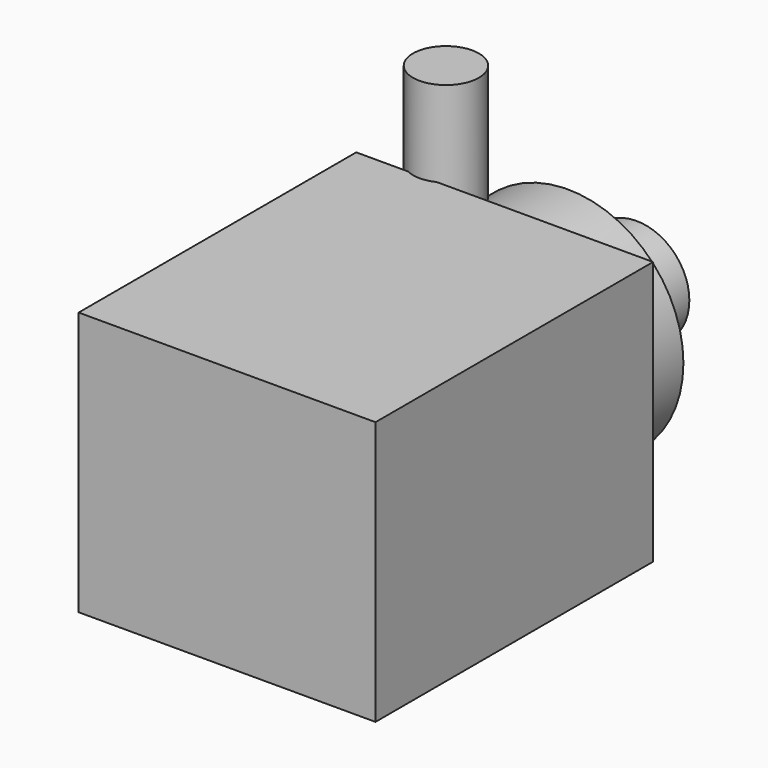
from build123d import *

# Parameters (mm, degrees)
F0_W     = 45
F0_H     = 40
F0_R     = 17.5
F0_R_2   = 8
F1_DEPTH = 52.6
F2_DEPTH = 12
F3_DEPTH = 25
F4_R     = 5
F5_DEPTH = 33


with BuildPart() as f1:
    # F0 (on Front) → F1 (new body)
    with BuildSketch(Plane.XZ):
        Rectangle(F0_W, F0_H)
        Circle(F0_R, mode=Mode.SUBTRACT)
        Circle(F0_R)
        Circle(F0_R_2, mode=Mode.SUBTRACT)
        Circle(F0_R_2)
    extrude(amount=F1_DEPTH)

    # F0 (on Front) → F2 (join)
    with BuildSketch(Plane.XZ):
        Circle(F0_R)
        Circle(F0_R_2, mode=Mode.SUBTRACT)
    extrude(amount=-F2_DEPTH)

    # F0 (on Front) → F3 (join)
    with BuildSketch(Plane.XZ):
        Circle(F0_R_2)
    extrude(amount=-F3_DEPTH)

    # F4 (on Top) → F5 (join)
    with BuildSketch(Plane.XY):
        with Locations((-12.5, 4.5)):
            Circle(F4_R)
    extrude(amount=F5_DEPTH)


solid = f1.part
